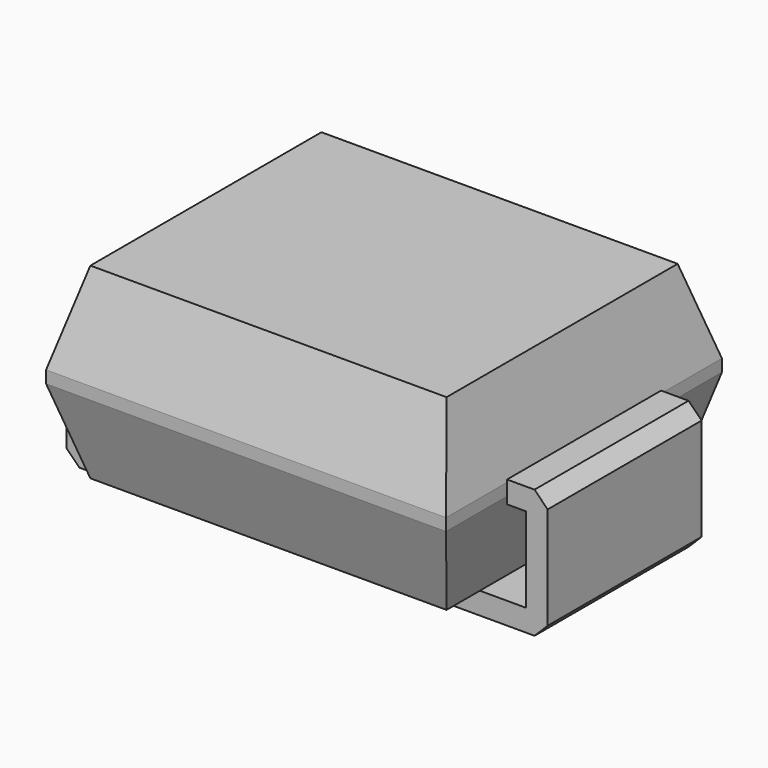
from build123d import *

# Parameters (mm, degrees)
F0_W       = 1.27
F0_H       = 2.2
F1_DEPTH   = 0.25
F0_W_2     = 0.25
F2_DEPTH   = 1.22
F4_W       = 4.57
F4_H       = 3.94
F5_DEPTH   = 2.14
F6_SIZE2   = 1
F6_SIZE    = 0.25
F6_2_SIZE2 = 1
F6_2_SIZE  = 0.25
F7_SIZE2   = 1
F7_SIZE    = 0.32
F7_2_SIZE2 = 1
F7_2_SIZE  = 0.32
F9_W       = 0.4641725831
F9_H       = 2.2
F10_DEPTH  = 0.25
F11_SIZE   = 0.15
F11_2_SIZE = 0.15


with BuildPart() as f1:
    # F0 (on Top) → F1 (new body)
    with BuildSketch(Plane.XY):
        with Locations((-1.865, 0)):
            Rectangle(F0_W, F0_H)
    extrude(amount=F1_DEPTH)

    # F0 (on Top) → F2 (join)
    with BuildSketch(Plane.XY):
        with Locations((-2.625, 0)):
            Rectangle(F0_W_2, F0_H)
    extrude(amount=F2_DEPTH)

    # F9 (on offset) → F10 (join)
    with BuildSketch(Plane.XY.offset(1.22)):
        with Locations((-2.5179137085, 0)):
            Rectangle(F9_W, F9_H)
    extrude(amount=F10_DEPTH)

    # F11
    f11_edges = [f1.edges().sort_by_distance(p)[0] for p in [
        (-2.75, 0, 1.47),
        (-2.75, 0, 0),
    ]]
    chamfer(f11_edges, length=F11_SIZE)


with BuildPart() as f1b:
    # F0 (on Top) → F1, piece 2 (new body)
    with BuildSketch(Plane.XY):
        with Locations((1.865, 0)):
            Rectangle(F0_W, F0_H)
    extrude(amount=F1_DEPTH)

    # F0 (on Top) → F2, piece 2 (join)
    with BuildSketch(Plane.XY):
        with Locations((2.625, 0)):
            Rectangle(F0_W_2, F0_H)
    extrude(amount=F2_DEPTH)

    # F9 (on offset) → F10, piece 2 (join)
    with BuildSketch(Plane.XY.offset(1.22)):
        with Locations((2.5179137085, 0)):
            Rectangle(F9_W, F9_H)
    extrude(amount=F10_DEPTH)

    # F11#2
    f11_2_edges = [f1b.edges().sort_by_distance(p)[0] for p in [
        (2.75, 0, 1.47),
        (2.75, 0, 0),
    ]]
    chamfer(f11_2_edges, length=F11_2_SIZE)


with BuildPart() as f5:
    # F4 (on offset) → F5 (new body)
    with BuildSketch(Plane.XY.offset(0.3)):
        Rectangle(F4_W, F4_H)
    extrude(amount=F5_DEPTH)

    # F6
    f6_edges = [f5.edges().sort_by_distance(p)[0] for p in [
        (-2.285, 0, 2.44),
        (2.285, 0, 2.44),
    ]]
    f6_side = f5.faces().sort_by_distance((0, 0, 2.44))[0]
    chamfer(f6_edges, length=F6_SIZE, length2=F6_SIZE2, reference=f6_side)

    # F6#2
    f6_2_edges = [f5.edges().sort_by_distance(p)[0] for p in [
        (-2.285, 0, 0.3),
        (2.285, 0, 0.3),
    ]]
    f6_2_side = f5.faces().sort_by_distance((0, 0, 0.3))[0]
    chamfer(f6_2_edges, length=F6_2_SIZE, length2=F6_2_SIZE2, reference=f6_2_side)

    # F7
    f7_edges = [f5.edges().sort_by_distance(p)[0] for p in [
        (0, 1.97, 2.44),
        (0, -1.97, 2.44),
    ]]
    f7_side = f5.faces().sort_by_distance((0, 0, 2.44))[0]
    chamfer(f7_edges, length=F7_SIZE, length2=F7_SIZE2, reference=f7_side)

    # F7#2
    f7_2_edges = [f5.edges().sort_by_distance(p)[0] for p in [
        (0, 1.97, 0.3),
        (0, -1.97, 0.3),
    ]]
    f7_2_side = f5.faces().sort_by_distance((0, 0, 0.3))[0]
    chamfer(f7_2_edges, length=F7_2_SIZE, length2=F7_2_SIZE2, reference=f7_2_side)


solid = Compound([f1.part, f1b.part, f5.part])
